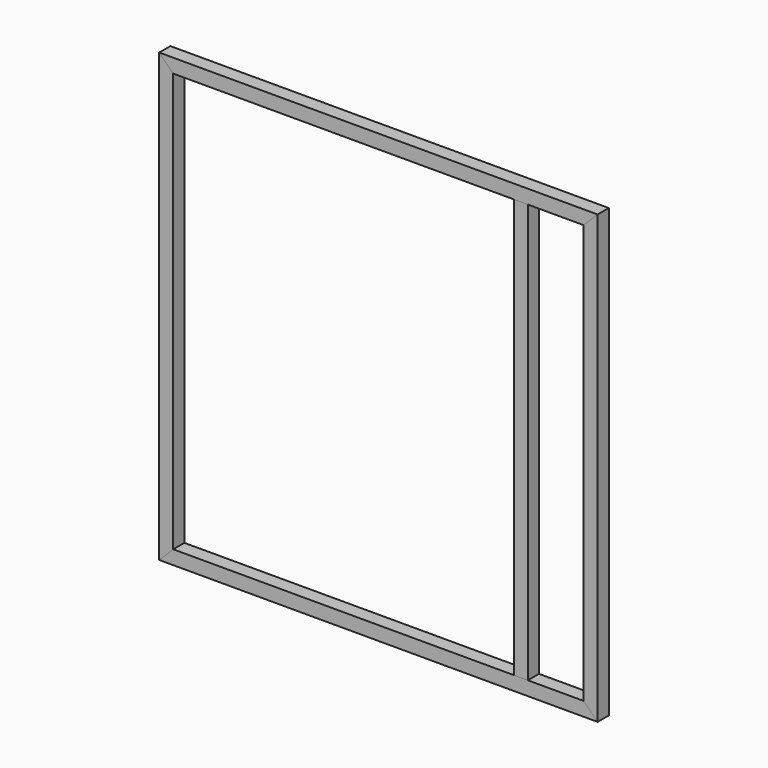
from build123d import *

# Parameters (mm, degrees)
F1_DEPTH = 25.4
F2_DEPTH = 25.4
F3_DEPTH = 25.4
F4_DEPTH = 25.4
F0_W     = 25.4
F0_H     = 762
F5_DEPTH = 25.4


with BuildPart() as f1:
    # F0 (on Front) → F1 (new body)
    with BuildSketch(Plane.XZ):
        Polygon((0, -812.8), (0, 0), (-25.4, -25.4), (-25.4, -787.4), align=None)
    extrude(amount=F1_DEPTH)


with BuildPart() as f2:
    # F0 (on Front) → F2 (new body)
    with BuildSketch(Plane.XZ):
        Polygon((-797.56, -812.8), (0, -812.8), (-25.4, -787.4), (-127, -787.4), (-152.4, -787.4), (-772.16, -787.4), align=None)
    extrude(amount=F2_DEPTH)


with BuildPart() as f3:
    # F0 (on Front) → F3 (new body)
    with BuildSketch(Plane.XZ):
        Polygon((-772.16, -25.4), (-797.56, 0), (-797.56, -812.8), (-772.16, -787.4), align=None)
    extrude(amount=F3_DEPTH)


with BuildPart() as f4:
    # F0 (on Front) → F4 (new body)
    with BuildSketch(Plane.XZ):
        Polygon((-25.4, -25.4), (0, 0), (-797.56, 0), (-772.16, -25.4), (-152.4, -25.4), (-127, -25.4), align=None)
    extrude(amount=F4_DEPTH)


with BuildPart() as f5:
    # F0 (on Front) → F5 (new body)
    with BuildSketch(Plane.XZ):
        with Locations((-139.7, -406.4)):
            Rectangle(F0_W, F0_H)
    extrude(amount=F5_DEPTH)


solid = Compound([f1.part, f2.part, f3.part, f4.part, f5.part])
